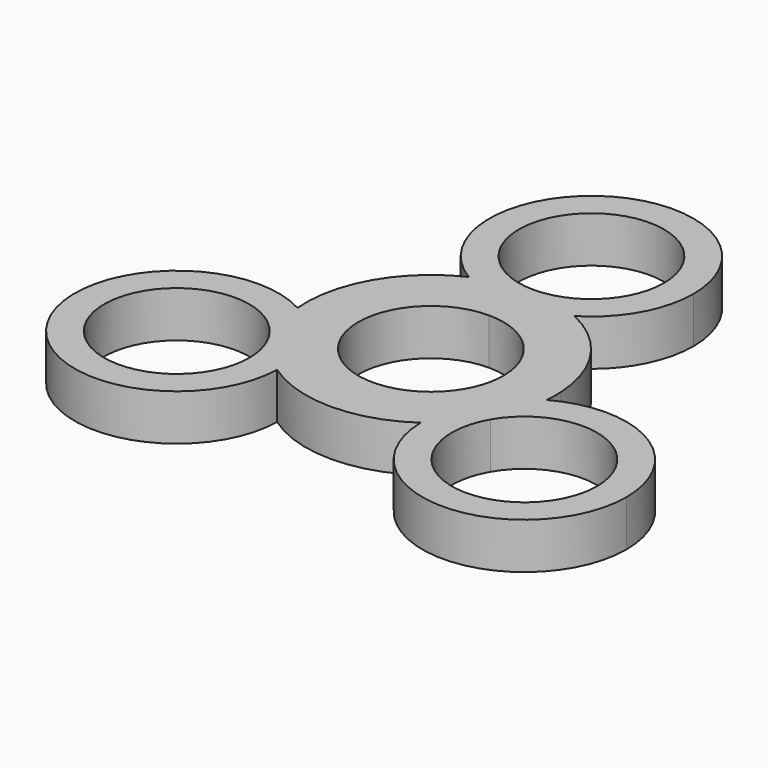
from build123d import *

# Parameters (mm, degrees)
F1_DEPTH = 7


with BuildPart() as f1:
    # F0 (on Top) → F1 (new body)
    with BuildSketch(Plane.XY):
        with BuildLine():
            ThreePointArc((0, 19), (4.1112446628, 18.5498697387), (8.0276897851, 17.2208070866))
            ThreePointArc((8.0276897851, 17.2208070866), (13.5033179565, 22.8701114223), (15.5, 30.48))
            ThreePointArc((15.5, 30.48), (-7.6098885777, 43.9833179565), (-8.0276897851, 17.2208070866))
            ThreePointArc((-8.0276897851, 17.2208070866), (-4.1112446628, 18.5498697387), (0, 19))
        make_face()
        with BuildLine():
            ThreePointArc((11.025, 30.48), (7.7958522626, 22.6841477374), (0, 19.455))
            ThreePointArc((0, 19.455), (-7.7958522626, 38.2758522626), (11.025, 30.48))
        make_face(mode=Mode.SUBTRACT)
        with BuildLine():
            ThreePointArc((-9.5479300767, -5.5125), (-9.5479300767, 5.5125), (0, 11.025))
            Line((0, 11.025), (0, 14.98))
            ThreePointArc((0, 14.98), (-4.1672838782, 15.550708487), (-8.0276897851, 17.2208070866))
            ThreePointArc((-8.0276897851, 17.2208070866), (-16.4544826719, 9.5), (-18.9275013032, -1.6582202557))
            ThreePointArc((-18.9275013032, -1.6582202557), (-15.5509505357, -4.1663805402), (-12.9730605487, -7.49))
            Line((-12.9730605487, -7.49), (-9.5479300767, -5.5125))
        make_face()
        with BuildLine():
            ThreePointArc((0, 11.025), (4.6737551189, 9.985321131), (8.4660219047, 7.0623719889))
            Line((8.4660219047, 7.0623719889), (18.9753399185, 0.9677163728))
            ThreePointArc((18.9753399185, 0.9677163728), (15.7585418973, 10.6145351886), (8.0276897851, 17.2208070866))
            ThreePointArc((8.0276897851, 17.2208070866), (4.1672838782, 15.550708487), (0, 14.98))
            Line((0, 14.98), (0, 11.025))
        make_face()
        with BuildLine():
            ThreePointArc((-8.0276897851, 17.2208070866), (-4.1672838782, 15.550708487), (0, 14.98))
            Line((0, 14.98), (0, 19))
            ThreePointArc((0, 19), (-4.1112446628, 18.5498697387), (-8.0276897851, 17.2208070866))
        make_face()
        with BuildLine():
            Line((0, 19), (0, 14.98))
            ThreePointArc((0, 14.98), (4.1672838782, 15.550708487), (8.0276897851, 17.2208070866))
            ThreePointArc((8.0276897851, 17.2208070866), (4.1112446628, 18.5498697387), (0, 19))
        make_face()
        with BuildLine():
            ThreePointArc((-10.8998115181, -15.5625868309), (-14.0090360992, -12.8353771885), (-16.4544826719, -9.5))
            ThreePointArc((-16.4544826719, -9.5), (-18.120280762, -5.7144925502), (-18.9275013032, -1.6582202557))
            ThreePointArc((-18.9275013032, -1.6582202557), (-39.819848066, -22.99), (-10.8998115181, -15.5625868309))
        make_face()
        with BuildLine():
            ThreePointArc((-15.3714543073, -15.24), (-37.0457865422, -18.0934799723), (-16.8485242306, -9.7275))
            ThreePointArc((-16.8485242306, -9.7275), (-15.7471220725, -12.3865200277), (-15.3714543073, -15.24))
        make_face(mode=Mode.SUBTRACT)
        with BuildLine():
            Line((-16.4544826719, -9.5), (-12.9730605487, -7.49))
            ThreePointArc((-12.9730605487, -7.49), (-15.5509505357, -4.1663805402), (-18.9275013032, -1.6582202557))
            ThreePointArc((-18.9275013032, -1.6582202557), (-18.120280762, -5.7144925502), (-16.4544826719, -9.5))
        make_face()
        with BuildLine():
            ThreePointArc((-10.8964543073, -15.24), (-11.4246039999, -11.2283048009), (-12.9730605487, -7.49))
            Line((-12.9730605487, -7.49), (-16.4544826719, -9.5))
            ThreePointArc((-16.4544826719, -9.5), (-14.0090360992, -12.8353771885), (-10.8998115181, -15.5625868309))
            ThreePointArc((-10.8998115181, -15.5625868309), (-10.8972936328, -15.40130215), (-10.8964543073, -15.24))
        make_face()
        with BuildLine():
            Line((12.9730605487, -7.49), (9.5479300767, -5.5125))
            ThreePointArc((9.5479300767, -5.5125), (0, -11.025), (-9.5479300767, -5.5125))
            Line((-9.5479300767, -5.5125), (-12.9730605487, -7.49))
            ThreePointArc((-12.9730605487, -7.49), (-11.4246039999, -11.2283048009), (-10.8964543073, -15.24))
            ThreePointArc((-10.8964543073, -15.24), (-10.8972936328, -15.40130215), (-10.8998115181, -15.5625868309))
            ThreePointArc((-10.8998115181, -15.5625868309), (0, -19), (10.8998115181, -15.5625868309))
            ThreePointArc((10.8998115181, -15.5625868309), (11.3836666575, -11.3843279468), (12.9730605487, -7.49))
        make_face()
        with BuildLine():
            Line((16.4544826719, -9.5), (12.9730605487, -7.49))
            ThreePointArc((12.9730605487, -7.49), (11.3836666575, -11.3843279468), (10.8998115181, -15.5625868309))
            ThreePointArc((10.8998115181, -15.5625868309), (14.0090360992, -12.8353771885), (16.4544826719, -9.5))
        make_face()
        with BuildLine():
            ThreePointArc((8.4660219047, 7.0623719889), (10.3655322222, 3.7558443459), (11.025, 0))
            ThreePointArc((11.025, 0), (10.6493322348, -2.8534799723), (9.5479300767, -5.5125))
            Line((9.5479300767, -5.5125), (12.9730605487, -7.49))
            ThreePointArc((12.9730605487, -7.49), (15.5509505357, -4.1663805402), (18.9275013032, -1.6582202557))
            ThreePointArc((18.9275013032, -1.6582202557), (18.9818666727, -0.8299021746), (19, 0))
            ThreePointArc((19, 0), (18.9938339791, 0.4840152626), (18.9753399185, 0.9677163728))
            Line((18.9753399185, 0.9677163728), (8.4660219047, 7.0623719889))
        make_face()
        with BuildLine():
            ThreePointArc((18.9275013032, -1.6582202557), (15.5509505357, -4.1663805402), (12.9730605487, -7.49))
            Line((12.9730605487, -7.49), (16.4544826719, -9.5))
            ThreePointArc((16.4544826719, -9.5), (18.120280762, -5.7144925502), (18.9275013032, -1.6582202557))
        make_face()
        with BuildLine():
            ThreePointArc((18.9275013032, -1.6582202557), (18.120280762, -5.7144925502), (16.4544826719, -9.5))
            ThreePointArc((16.4544826719, -9.5), (14.0090360992, -12.8353771885), (10.8998115181, -15.5625868309))
            ThreePointArc((10.8998115181, -15.5625868309), (26.5577564573, -30.7391606746), (41.8964543073, -15.24))
            ThreePointArc((41.8964543073, -15.24), (34.2857264042, -1.8979841935), (18.9275013032, -1.6582202557))
        make_face()
        with BuildLine():
            ThreePointArc((37.4214543073, -15.24), (23.5429743351, -25.8893322348), (16.8485242306, -9.7275))
            ThreePointArc((16.8485242306, -9.7275), (29.2499342796, -4.5906677652), (37.4214543073, -15.24))
        make_face(mode=Mode.SUBTRACT)
    extrude(amount=F1_DEPTH)


solid = f1.part
